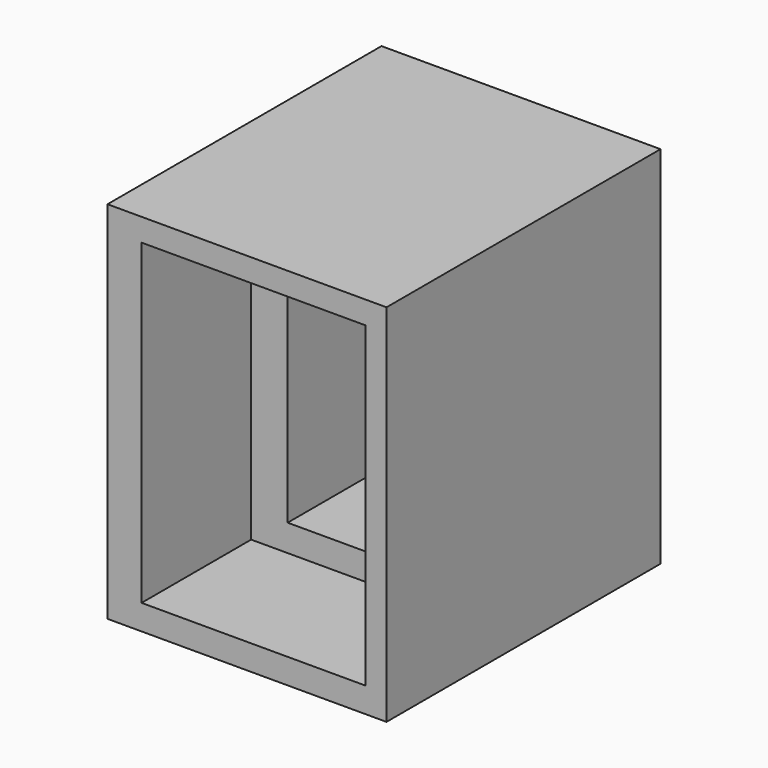
from build123d import *

# Parameters (mm, degrees)
F0_W     = 103.471577
F0_H     = 135.355264
F0_W_2   = 83.017897
F0_H_2   = 117.608685
F1_DEPTH = 127
F0_W_3   = 57.149997
F0_H_3   = 101.366054
F2_DEPTH = 76.2


with BuildPart() as f1:
    # F0 (on Front) → F1 (new body)
    with BuildSketch(Plane.XZ):
        with Locations((0.150393, -0.751972)):
            Rectangle(F0_W, F0_H)
        with Locations((2.55671, -0.30079)):
            Rectangle(F0_W_2, F0_H_2, mode=Mode.SUBTRACT)
    extrude(amount=F1_DEPTH)

    # F0 (on Front) → F2 (join)
    with BuildSketch(Plane.XZ):
        with Locations((2.55671, -0.30079)):
            Rectangle(F0_W_2, F0_H_2)
        with Locations((3.158288, 1.50395)):
            Rectangle(F0_W_3, F0_H_3, mode=Mode.SUBTRACT)
    extrude(amount=F2_DEPTH)


solid = f1.part
